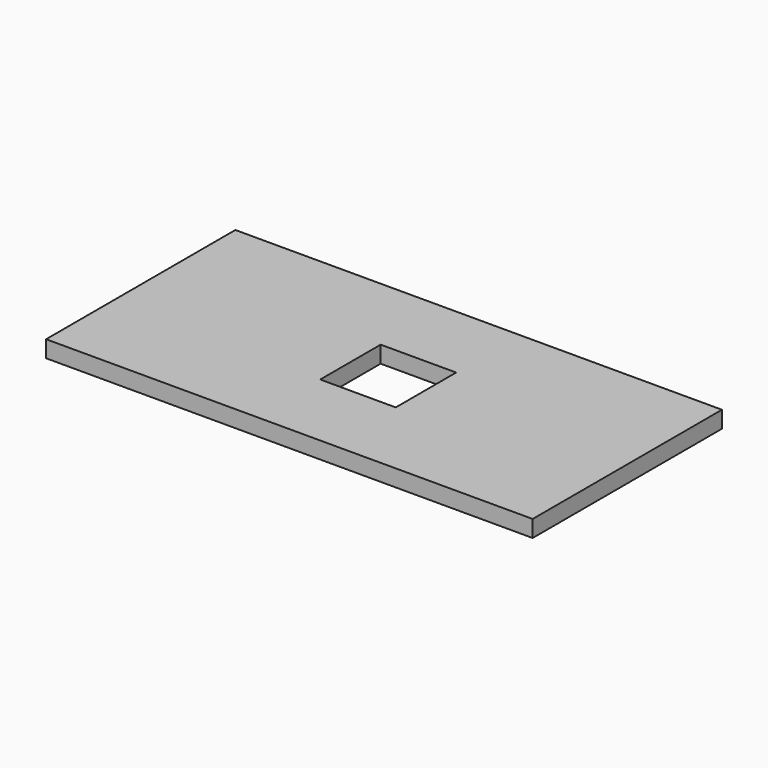
from build123d import *

# Parameters (mm, degrees)
RECTANGLE003_W     = 9
RECTANGLE003_H     = 9
EXTRUSION005_DEPTH = 2
CIRCLE_R           = 4.26
EXTRUSION001_DEPTH = 34.920666
RECTANGLE_W        = 28.2
RECTANGLE_H        = 58
EXTRUSION_DEPTH    = 2


with BuildPart() as extrusion005:
    # Rectangle003 (on Cut) → Extrusion005 (new body)
    with BuildSketch(Plane(origin=(-284.476256, -56.100832, -3.133948), x_dir=(1, 0, 0), z_dir=(0, 0, 1))):
        with Locations((4.5, 4.5)):
            Rectangle(RECTANGLE003_W, RECTANGLE003_H)
    extrude(amount=-EXTRUSION005_DEPTH)


with BuildPart() as extrusion001:
    # Circle → Extrusion001 (new body)
    with BuildSketch(Plane(origin=(-279.976256, -51.600832, -5.133948), x_dir=(0, 1, 0), z_dir=(0, 0, -1))):
        Circle(CIRCLE_R)
    extrude(amount=-EXTRUSION001_DEPTH)


with BuildPart() as cut002:
    # Rectangle → Extrusion (new body)
    with BuildSketch(Plane(origin=(-309.476256, -65.700832, -5.133948), x_dir=(0, 1, 0), z_dir=(0, 0, -1))):
        with Locations((14.1, 29)):
            Rectangle(RECTANGLE_W, RECTANGLE_H)
    extrude(amount=-EXTRUSION_DEPTH)

    # Cut: cut Extrusion001
    add(extrusion001.part, mode=Mode.SUBTRACT)

    # Cut002: cut Extrusion005
    add(extrusion005.part, mode=Mode.SUBTRACT)


solid = cut002.part
